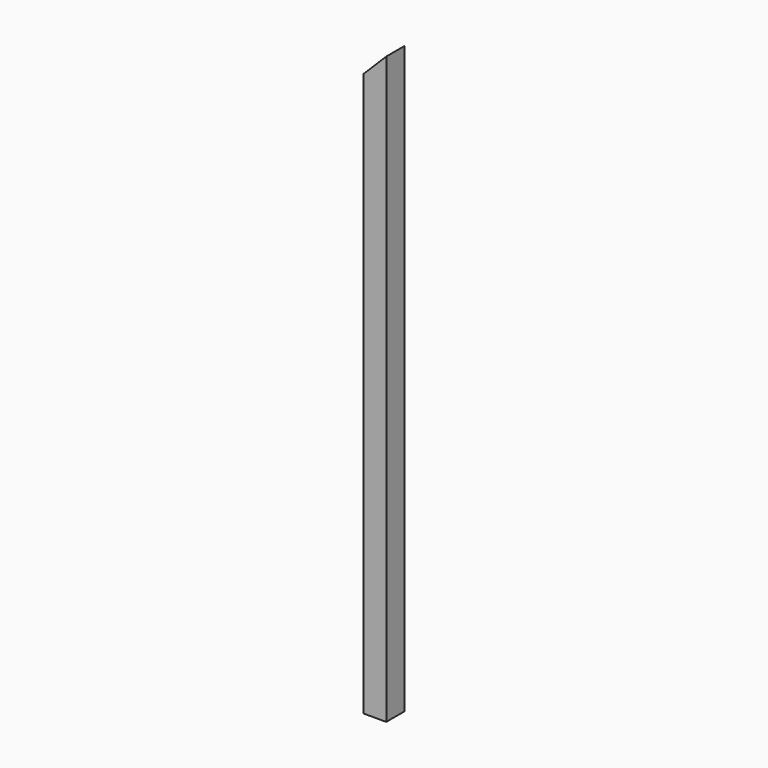
from build123d import *

# Parameters (mm, degrees)
F0_W     = 76.2
F0_H     = 76.2
F0_W_2   = 69.85
F0_H_2   = 66.400398
F1_DEPTH = 1981.2
F3_DEPTH = 101.6


with BuildPart() as f1:
    # F0 (on Top) → F1 (new body)
    with BuildSketch(Plane.XY):
        Rectangle(F0_W, F0_H)
        with Locations((0, 1.724801)):
            Rectangle(F0_W_2, F0_H_2, mode=Mode.SUBTRACT)
    extrude(amount=F1_DEPTH)

    # F2 (on face) → F3 (cut)
    with BuildSketch(Plane.XZ.offset(38.1)):
        Polygon((-38.1, 1905), (38.1, 1981.2), (-38.1, 1981.2), align=None)
    extrude(amount=-F3_DEPTH, mode=Mode.SUBTRACT)


solid = f1.part
